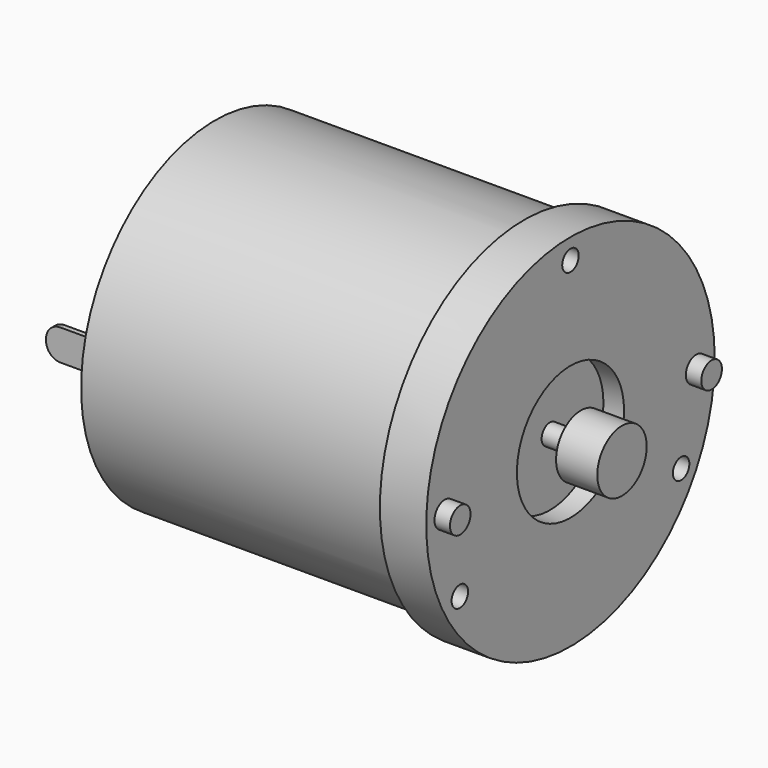
from build123d import *

# Parameters (mm, degrees)
SKETCH067_R             = 17.5
PAD052_DEPTH            = 4.5
SKETCH068_R             = 16.25
PAD053_DEPTH            = 30
SKETCH069_R             = 4.5
PAD054_DEPTH            = 4
SKETCH070_W             = 0.5
SKETCH070_H             = 3
PAD055_DEPTH            = 7
FILLET003_R             = 1.4
SKETCH071_R             = 1.25
PAD056_DEPTH            = 1.5
SKETCH072_R             = 1
POCKET013_DEPTH         = 4.5
SKETCH073_R             = 6.5
POCKET014_DEPTH         = 2
SKETCH074_R             = 1
PAD057_DEPTH            = 7
SKETCH075_R             = 3
PAD058_DEPTH            = 4
BODY016_ROLL_ANGLE      = 90
BODY016_PLACEMENT_ANGLE = 90


with BuildPart() as part:
    # Sketch067 → Pad052 (new body)
    with BuildSketch(Plane.XY):
        Circle(SKETCH067_R)
    extrude(amount=PAD052_DEPTH)

    # Sketch068 (on Face2 of Pad052) → Pad053 (join)
    with BuildSketch(Plane(origin=(0, 0, 0), x_dir=(1, 0, 0), z_dir=(0, 0, -1))):
        Circle(SKETCH068_R)
    extrude(amount=PAD053_DEPTH)

    # Sketch069 (on Face5 of Pad053) → Pad054 (join)
    with BuildSketch(Plane(origin=(0, 0, -30), x_dir=(1, 0, 0), z_dir=(0, 0, -1))):
        Circle(SKETCH069_R)
    extrude(amount=PAD054_DEPTH)

    # Sketch070 (on Face5 of Pad054) → Pad055 (join)
    with BuildSketch(Plane(origin=(0, 0, -30), x_dir=(1, 0, 0), z_dir=(0, 0, -1))):
        with Locations((11.5, 0)):
            Rectangle(SKETCH070_W, SKETCH070_H)
        with Locations((-11.5, 0)):
            Rectangle(SKETCH070_W, SKETCH070_H)
    extrude(amount=PAD055_DEPTH)

    # Fillet003
    fillet003_edges = [part.edges().sort_by_distance(p)[0] for p in [
        (11.5, -1.5, -37),
        (11.5, 1.5, -37),
        (-11.5, 1.5, -37),
        (-11.5, -1.5, -37),
    ]]
    fillet(fillet003_edges, radius=FILLET003_R)

    # Sketch071 (on Face21 of Fillet003) → Pad056 (join)
    with BuildSketch(Plane.XY.offset(4.5)):
        with Locations((-15.25, 0)):
            Circle(SKETCH071_R)
        with Locations((15.25, 0)):
            Circle(SKETCH071_R)
    extrude(amount=PAD056_DEPTH)

    # Sketch072 (on Face21 of Pad056) → Pocket013 (cut)
    with BuildSketch(Plane.XY.offset(4.5)):
        with Locations((0, 15.5)):
            Circle(SKETCH072_R)
        with Locations((-13.423394, -7.75)):
            Circle(SKETCH072_R)
        with Locations((13.423394, -7.75)):
            Circle(SKETCH072_R)
    extrude(amount=-POCKET013_DEPTH, mode=Mode.SUBTRACT)

    # Sketch073 (on Face27 of Pocket013) → Pocket014 (cut)
    with BuildSketch(Plane.XY.offset(4.5)):
        Circle(SKETCH073_R)
    extrude(amount=-POCKET014_DEPTH, mode=Mode.SUBTRACT)

    # Sketch074 (on Face32 of Pocket014) → Pad057 (join)
    with BuildSketch(Plane.XY.offset(2.5)):
        Circle(SKETCH074_R)
    extrude(amount=PAD057_DEPTH)

    # Sketch075 (on Face35 of Pad057) → Pad058 (join)
    with BuildSketch(Plane.XY.offset(9.5)):
        Circle(SKETCH075_R)
    extrude(amount=-PAD058_DEPTH)


with BuildPart() as part_1:
    # Body016 roll: moved
    add(part.part.rotate(Axis((0, 0, 0), (1, 0, 0)), BODY016_ROLL_ANGLE))


with BuildPart() as part_2:
    # Body016 placement: moved
    add(part_1.part.moved(Location((-157.5, 216.5, 160))).rotate(Axis((-157.5, 216.5, 160), (0, 0, 1)), BODY016_PLACEMENT_ANGLE))


solid = part_2.part
